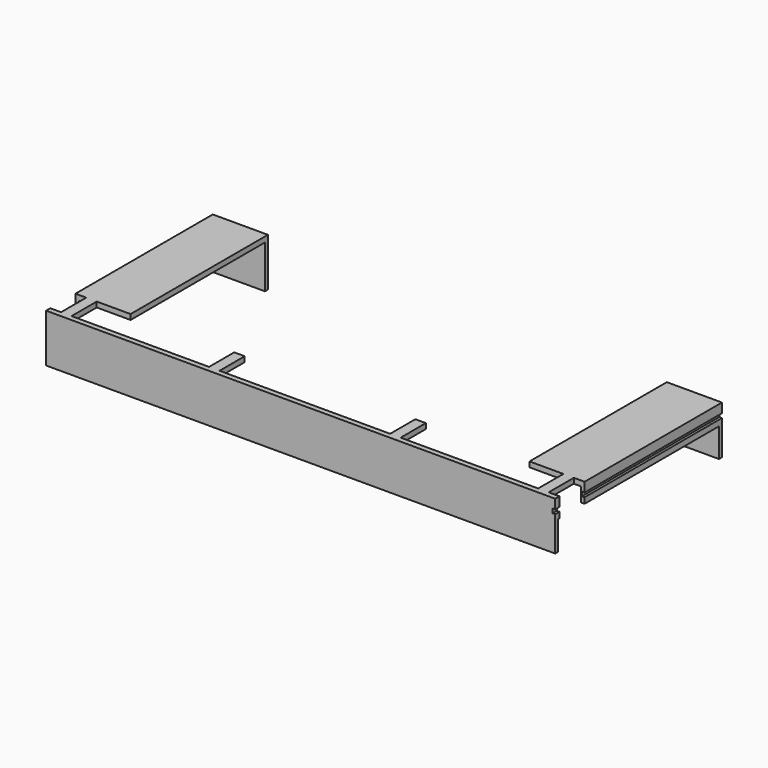
from build123d import *

# Parameters (mm, degrees)
SKETCH002_W     = 97
SKETCH002_H     = 39.7
PAD002_DEPTH    = 9.2
SKETCH003_W     = 95.6
SKETCH003_H     = 38.3
POCKET_DEPTH    = 8.2
POCKET001_DEPTH = 97.001
SKETCH005_W     = 32.5
SKETCH005_H     = 6
SKETCH005_W_2   = 26.2
SKETCH005_W_3   = 5
POCKET002_DEPTH = 3.701
POCKET003_DEPTH = 32.701
POCKET004_DEPTH = 0.5
SKETCH008_W     = 9.8
SKETCH008_H     = 5
POCKET005_DEPTH = 2


with BuildPart() as part:
    # Sketch002 → Pad002 (new body)
    with BuildSketch(Plane.XY):
        Rectangle(SKETCH002_W, SKETCH002_H)
    extrude(amount=PAD002_DEPTH)

    # Sketch003 (on Face5 of Pad002) → Pocket (cut)
    with BuildSketch(Plane(origin=(0, 0, 0), x_dir=(1, 0, 0), z_dir=(0, 0, -1))):
        Rectangle(SKETCH003_W, SKETCH003_H)
    extrude(amount=-POCKET_DEPTH, mode=Mode.SUBTRACT)

    # Sketch004 (on Face3 of Pocket) → Pocket001 (cut, through all)
    with BuildSketch(Plane.YZ.offset(48.5)):
        Polygon((19.15, 5.5), (-19.15, 5.5), (-19.15, 0), (-19.15, -1), (19.15, -1), (19.15, 0), align=None)
    extrude(amount=-POCKET001_DEPTH, mode=Mode.SUBTRACT)

    # Sketch005 (on Face8 of Pocket001) → Pocket002 (cut, through all)
    with BuildSketch(Plane(origin=(0, 0, 5.5), x_dir=(1, 0, 0), z_dir=(0, 0, -1))):
        with Locations((0, 15.85)):
            Rectangle(SKETCH005_W, SKETCH005_H)
        with Locations((-31.35, 15.85)):
            Rectangle(SKETCH005_W_2, SKETCH005_H)
        with Locations((-48.95, 15.85)):
            Rectangle(SKETCH005_W_3, SKETCH005_H)
        with Locations((31.35, 15.85)):
            Rectangle(SKETCH005_W_2, SKETCH005_H)
        with Locations((48.95, 15.85)):
            Rectangle(SKETCH005_W_3, SKETCH005_H)
    extrude(amount=-POCKET002_DEPTH, mode=Mode.SUBTRACT)

    # Sketch006 (on Face20 of Pocket002) → Pocket003 (cut, through all)
    with BuildSketch(Plane.XZ.offset(12.85)):
        with BuildLine():
            Line((-37, 13.1), (37, 13.1))
            ThreePointArc((38, 12.1), (37.707107, 12.807107), (37, 13.1))
            Line((38, 12.1), (38, -12.1))
            ThreePointArc((37, -13.1), (37.707107, -12.807107), (38, -12.1))
            Line((37, -13.1), (-37, -13.1))
            ThreePointArc((-38, -12.1), (-37.707107, -12.807107), (-37, -13.1))
            Line((-38, -12.1), (-38, 12.1))
            ThreePointArc((-37, 13.1), (-37.707107, 12.807107), (-38, 12.1))
        make_face()
    extrude(amount=-POCKET003_DEPTH, mode=Mode.SUBTRACT)

    # Sketch007 (on Face20 of Pocket003) → Pocket004 (cut)
    with BuildSketch(Plane.YZ.offset(48.5)):
        with BuildLine():
            ThreePointArc((-43.699994, 7.4), (-44.1, 7.000001), (-43.699996, 6.6))
            Line((-43.699996, 6.6), (43.7, 6.6))
            ThreePointArc((43.7, 6.6), (44.1, 7), (43.699999, 7.4))
            Line((-43.699994, 7.4), (43.699999, 7.4))
        make_face()
        with BuildLine():
            ThreePointArc((-43.7, -6.6), (-44.1, -7), (-43.7, -7.4))
            Line((-43.7, -7.4), (43.7, -7.4))
            ThreePointArc((43.7, -7.4), (44.1, -7), (43.7, -6.6))
            Line((-43.7, -6.6), (43.7, -6.6))
        make_face()
    extrude(amount=-POCKET004_DEPTH, mode=Mode.SUBTRACT)

    # Sketch008 (on Face21 of Pocket004) → Pocket005 (cut)
    with BuildSketch(Plane(origin=(0, 19.85, 0), x_dir=(-1, 0, 0), z_dir=(0, 1, 0))):
        with Locations((0, 5)):
            Rectangle(SKETCH008_W, SKETCH008_H)
    extrude(amount=-POCKET005_DEPTH, mode=Mode.SUBTRACT)


solid = part.part
